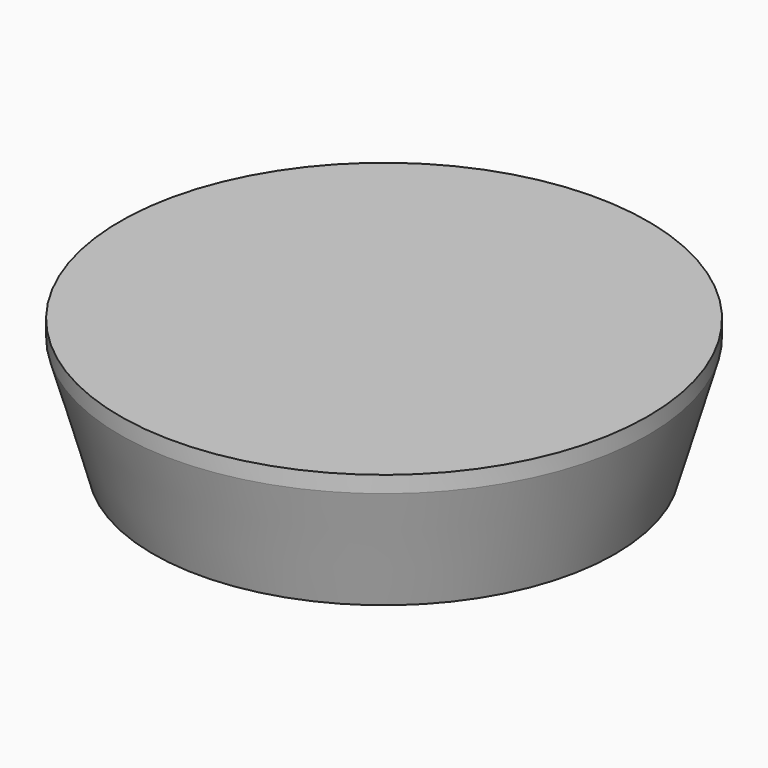
from build123d import *

# Parameters (mm, degrees)
F0_W      = 101.6
F0_H      = 6.35
F2_W      = 88.9
F2_H      = 8.930966
F3_FACE_R = 88.9
F1_FACE_R = 101.6


with BuildPart() as f1:
    # F0 (on Front) → F1 (revolve)
    with BuildSketch(Plane.XZ):
        with Locations((50.8, -3.175)):
            Rectangle(F0_W, F0_H)
    revolve(axis=Axis((0, 0, -3.175), (0, 0, -1)))


with BuildPart() as f3:
    # F2 (on Front) → F3 (revolve)
    with BuildSketch(Plane.XZ):
        with Locations((44.45, -55.265483)):
            Rectangle(F2_W, F2_H)
    revolve(axis=Axis((0, 0, -55.265483), (0, 0, 1)))


with BuildPart() as f4:
    # F3_face (on face) → F4 section 0
    with BuildSketch(Plane.XY.offset(-50.8)):
        Circle(F3_FACE_R)
    # F1_face (on face) → F4 section 1
    with BuildSketch(Plane(origin=(0, 0, -6.35), x_dir=(1, 0, 0), z_dir=(0, 0, -1))):
        Circle(F1_FACE_R)
    loft()


solid = Compound([f1.part, f4.part])
